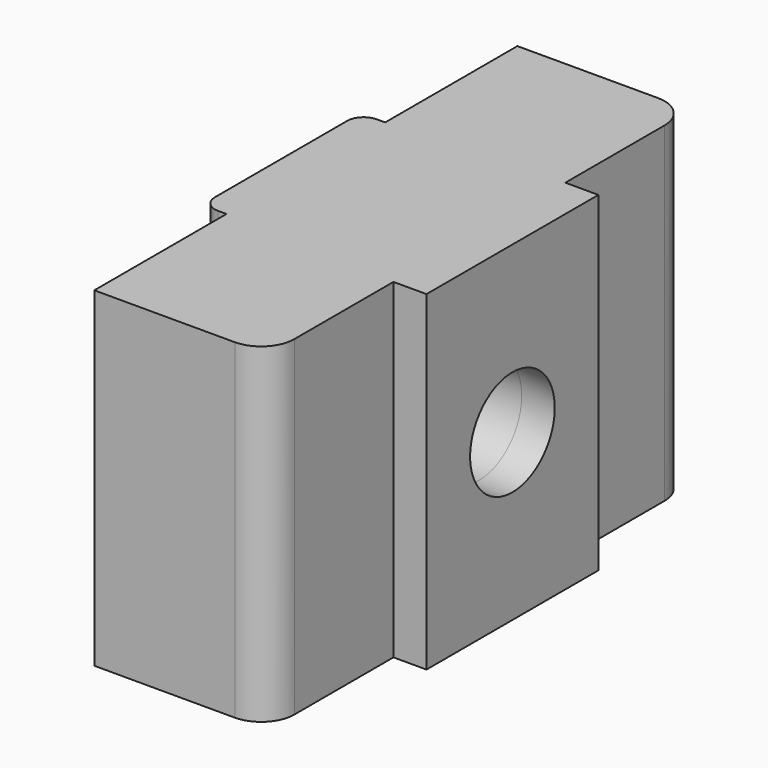
from build123d import *

# Parameters (mm, degrees)
F0_W     = 0.75
F0_H     = 6
F1_DEPTH = 10
F2_R     = 1.6
F3_DEPTH = 25
F4_DEPTH = 1
F5_R     = 1
F6_R     = 0.5


with BuildPart() as f1:
    # F0 (on Top) → F1 (new body)
    with BuildSketch(Plane.XY):
        with Locations((-0.375, 0)):
            Rectangle(F0_W, F0_H)
        Polygon((0, 8), (0, 3), (0, -3), (0, -8), (5.25, -8), (5.25, 8), align=None)
    extrude(amount=F1_DEPTH)

    # F2 (on face) → F3 (cut)
    with BuildSketch(Plane.YZ.offset(5.25)):
        with Locations((0, 5)):
            Circle(F2_R)
    extrude(amount=-F3_DEPTH, mode=Mode.SUBTRACT)

    # F2 (on face) → F4 (join)
    with BuildSketch(Plane.YZ.offset(5.25)):
        with BuildLine():
            ThreePointArc((-3.25, 5), (0, 8.25), (3.25, 5))
            Line((3.25, 5), (3.25, 10))
            Line((3.25, 10), (-3.25, 10))
            Line((-3.25, 10), (-3.25, 5))
        make_face()
        with BuildLine():
            ThreePointArc((-3.25, 5), (0, 1.75), (3.25, 5))
            ThreePointArc((3.25, 5), (0, 8.25), (-3.25, 5))
        make_face()
        with Locations((0, 5)):
            Circle(F2_R, mode=Mode.SUBTRACT)
        with BuildLine():
            Line((3.25, 0), (3.25, 5))
            ThreePointArc((3.25, 5), (0, 1.75), (-3.25, 5))
            Line((-3.25, 5), (-3.25, 0))
            Line((-3.25, 0), (3.25, 0))
        make_face()
    extrude(amount=F4_DEPTH)

    # F5
    f5_edges = [f1.edges().sort_by_distance(p)[0] for p in [
        (5.25, -8, 5),
        (5.25, 8, 5),
    ]]
    fillet(f5_edges, radius=F5_R)

    # F6
    f6_edges = [f1.edges().sort_by_distance(p)[0] for p in [
        (-0.75, -3, 5),
        (-0.75, 3, 5),
    ]]
    fillet(f6_edges, radius=F6_R)


solid = f1.part
